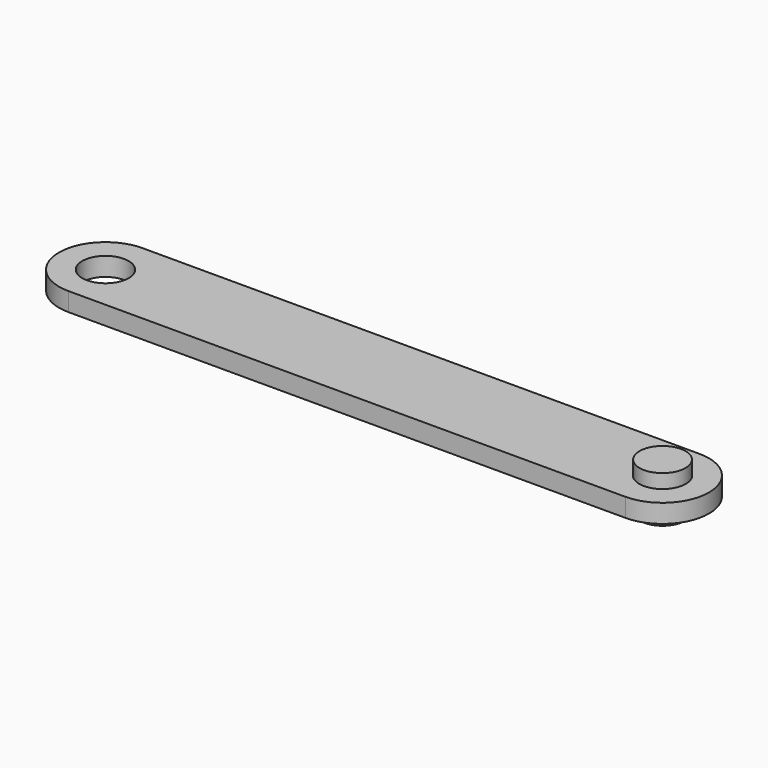
from build123d import *

# Parameters (mm, degrees)
F0_R     = 12.5
F1_DEPTH = 5
F2_R     = 12.370073
F3_DEPTH = 12.5


with BuildPart() as f1:
    # F0 (on Top) → F1 (new body, symmetric)
    with BuildSketch(Plane.XY):
        with BuildLine():
            ThreePointArc((150.000002, -25), (174.999998, 2e-06), (149.999998, 25))
            Line((149.999998, 25), (-150.000002, 25))
            ThreePointArc((-150.000002, 25), (-175.000002, -2e-06), (-149.999998, -25))
            Line((-149.999998, -25), (150.000002, -25))
        make_face()
        with Locations((-150.000002, 0)):
            Circle(F0_R, mode=Mode.SUBTRACT)
        with Locations((149.999998, 0)):
            Circle(F0_R, mode=Mode.SUBTRACT)
    extrude(amount=F1_DEPTH, both=True)


with BuildPart() as f3:
    # F2 (on Top) → F3 (new body, symmetric)
    with BuildSketch(Plane.XY):
        with Locations((150, 0)):
            Circle(F2_R)
    extrude(amount=F3_DEPTH, both=True)


solid = Compound([f1.part, f3.part])
